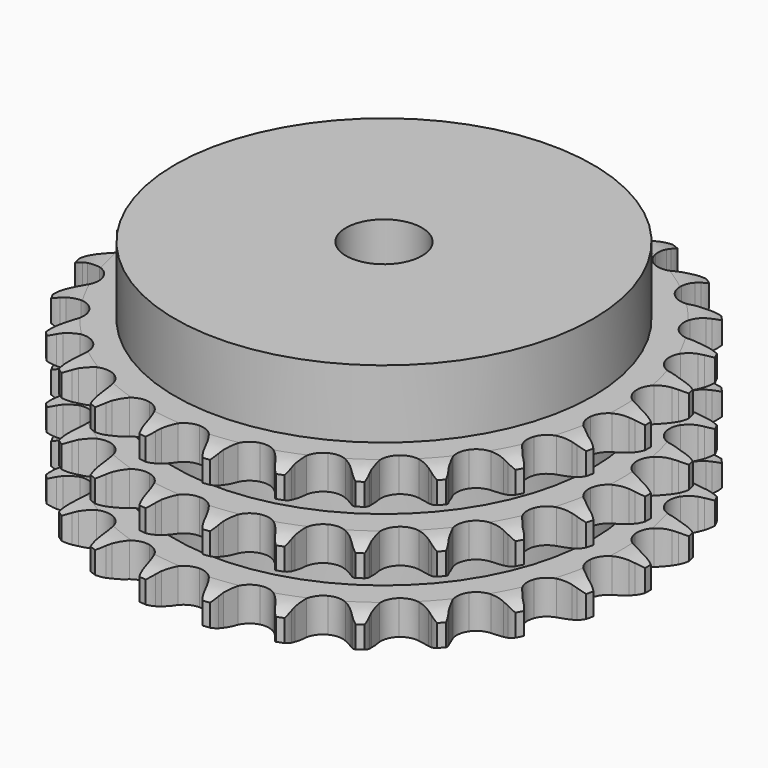
from build123d import *

# Parameters (mm, degrees)
PAD_DEPTH         = 42.1
SKETCH001_R       = 55
PAD001_DEPTH      = 60
SKETCH002_R       = 10
POCKET_DEPTH      = 0.001
POCKET_DEPTH_BACK = 60.001


with BuildPart() as part:
    # Sprocket → Pad (new body)
    with BuildSketch(Plane.XY):
        with BuildLine():
            ThreePointArc((-8.535843, 70.298991), (-7.278141, 68.863703), (-6.380745, 67.179499))
            Line((-6.380745, 67.179499), (-5.886352, 65.921935))
            ThreePointArc((-5.886352, 65.921935), (-5.099116, 64.265742), (-4.091099, 62.733874))
            ThreePointArc((-4.091099, 62.733874), (-2.28265, 61.242083), (0, 60.707824))
            ThreePointArc((0, 60.707824), (2.28265, 61.242083), (4.091099, 62.733874))
            ThreePointArc((4.091099, 62.733874), (5.099116, 64.265742), (5.886352, 65.921935))
            Line((5.886352, 65.921935), (6.380745, 67.179499))
            ThreePointArc((6.380745, 67.179499), (7.278141, 68.863703), (8.535843, 70.298991))
            ThreePointArc((8.535843, 70.298991), (9.413511, 68.604422), (9.881775, 66.754397))
            Line((9.881775, 66.754397), (10.060846, 65.41506))
            ThreePointArc((10.060846, 65.41506), (10.428854, 63.618594), (11.040979, 61.890005))
            ThreePointArc((11.040979, 61.890005), (12.439869, 60.008774), (14.528333, 58.943765))
            ThreePointArc((14.528333, 58.943765), (16.872511, 58.916226), (18.985418, 59.931877))
            Line((18.985418, 59.931877), (21.491457, 62.597667))
            ThreePointArc((21.491457, 62.597667), (21.867904, 63.158966), (22.272438, 63.700373))
            ThreePointArc((22.272438, 63.700373), (23.546814, 65.120876), (25.111457, 66.213469))
            ThreePointArc((25.111457, 66.213469), (25.558085, 64.358102), (25.570001, 62.449772))
            Line((25.570001, 62.449772), (25.423345, 61.106499))
            ThreePointArc((25.423345, 61.106499), (25.350736, 59.274165), (25.531396, 57.449315))
            ThreePointArc((25.531396, 57.449315), (26.439429, 55.287972), (28.212333, 53.754109))
            ThreePointArc((28.212333, 53.754109), (30.481802, 53.166371), (32.776373, 53.646858))
            Line((32.776373, 53.646858), (35.847557, 55.63545))
            ThreePointArc((35.847557, 55.63545), (36.347393, 56.090349), (36.869739, 56.519212))
            ThreePointArc((36.869739, 56.519212), (38.447033, 57.59346), (40.227684, 58.279861))
            ThreePointArc((40.227684, 58.279861), (40.217315, 56.371522), (39.772192, 54.515793))
            Line((39.772192, 54.515793), (39.308331, 53.24665))
            ThreePointArc((39.308331, 53.24665), (38.799326, 51.484938), (38.538021, 49.669879))
            ThreePointArc((38.538021, 49.669879), (38.902425, 47.354035), (40.256734, 45.440459))
            ThreePointArc((40.256734, 45.440459), (42.319601, 44.326681), (44.662485, 44.244078))
            Line((44.662485, 44.244078), (48.120326, 45.439903))
            ThreePointArc((48.120326, 45.439903), (48.714503, 45.761965), (49.324304, 46.053361))
            ThreePointArc((49.324304, 46.053361), (51.112849, 46.718922), (53.006024, 46.95924))
            ThreePointArc((53.006024, 46.95924), (52.539261, 45.108835), (51.662968, 43.413555))
            Line((51.662968, 43.413555), (50.90886, 42.2923))
            ThreePointArc((50.90886, 42.2923), (49.99304, 40.703592), (49.304956, 39.003811))
            ThreePointArc((49.304956, 39.003811), (49.104553, 36.668053), (49.96156, 34.485975))
            ThreePointArc((49.96156, 34.485975), (51.69794, 32.910884), (53.952975, 32.269993))
            Line((53.952975, 32.269993), (57.596518, 32.603555))
            ThreePointArc((57.596518, 32.603555), (58.250503, 32.774062), (58.91232, 32.911055))
            ThreePointArc((58.91232, 32.911055), (60.808172, 33.129249), (62.703847, 32.909518))
            ThreePointArc((62.703847, 32.909518), (61.807817, 31.224586), (60.551279, 29.788278))
            Line((60.551279, 29.788278), (59.550751, 28.880075))
            ThreePointArc((59.550751, 28.880075), (58.281341, 27.556702), (57.206467, 26.070982))
            ThreePointArc((57.206467, 26.070982), (56.452904, 23.851057), (56.762802, 21.527291))
            ThreePointArc((56.762802, 21.527291), (58.071782, 19.582427), (60.107915, 18.420494))
            Line((60.107915, 18.420494), (63.725409, 17.872406))
            ThreePointArc((63.725409, 17.872406), (64.401195, 17.88145), (65.076566, 17.856079))
            ThreePointArc((65.076566, 17.856079), (66.969545, 17.614226), (68.75755, 16.947214))
            ThreePointArc((68.75755, 16.947214), (67.484326, 15.525677), (65.920571, 14.431816))
            Line((65.920571, 14.431816), (64.731768, 13.789445))
            ThreePointArc((64.731768, 13.789445), (63.182541, 12.808317), (61.783345, 11.623003))
            ThreePointArc((61.783345, 11.623003), (60.520417, 9.647925), (60.265196, 7.31752))
            ThreePointArc((60.265196, 7.31752), (61.070703, 5.11591), (62.7696, 3.500462))
            Line((62.7696, 3.500462), (66.150811, 2.102577))
            ThreePointArc((66.150811, 2.102577), (66.809125, 1.949632), (67.458798, 1.763372))
            ThreePointArc((67.458798, 1.763372), (69.238892, 1.075527), (70.815314, 0))
            ThreePointArc((70.815314, 0), (69.238892, -1.075527), (67.458798, -1.763372))
            Line((67.458798, -1.763372), (66.150811, -2.102577))
            ThreePointArc((66.150811, -2.102577), (64.411802, -2.684442), (62.7696, -3.500462))
            ThreePointArc((62.7696, -3.500462), (61.070703, -5.11591), (60.265196, -7.31752))
            ThreePointArc((60.265196, -7.31752), (60.520417, -9.647925), (61.783345, -11.623003))
            Line((61.783345, -11.623003), (64.731768, -13.789445))
            ThreePointArc((64.731768, -13.789445), (65.33435, -14.095491), (65.920571, -14.431816))
            ThreePointArc((65.920571, -14.431816), (67.484326, -15.525677), (68.75755, -16.947214))
            ThreePointArc((68.75755, -16.947214), (66.969545, -17.614226), (65.076566, -17.856079))
            Line((65.076566, -17.856079), (63.725409, -17.872406))
            ThreePointArc((63.725409, -17.872406), (61.897684, -18.02119), (60.107915, -18.420494))
            ThreePointArc((60.107915, -18.420494), (58.071782, -19.582427), (56.762802, -21.527291))
            ThreePointArc((56.762802, -21.527291), (56.452904, -23.851057), (57.206467, -26.070982))
            Line((57.206467, -26.070982), (59.550751, -28.880075))
            ThreePointArc((59.550751, -28.880075), (60.062581, -29.321435), (60.551279, -29.788278))
            ThreePointArc((60.551279, -29.788278), (61.807817, -31.224586), (62.703847, -32.909518))
            ThreePointArc((62.703847, -32.909518), (60.808172, -33.129249), (58.91232, -32.911055))
            Line((58.91232, -32.911055), (57.596518, -32.603555))
            ThreePointArc((57.596518, -32.603555), (55.786296, -32.310612), (53.952975, -32.269993))
            ThreePointArc((53.952975, -32.269993), (51.69794, -32.910884), (49.96156, -34.485975))
            ThreePointArc((49.96156, -34.485975), (49.104553, -36.668053), (49.304956, -39.003811))
            Line((49.304956, -39.003811), (50.90886, -42.2923))
            ThreePointArc((50.90886, -42.2923), (51.300193, -42.843324), (51.662968, -43.413555))
            ThreePointArc((51.662968, -43.413555), (52.539261, -45.108835), (53.006024, -46.95924))
            ThreePointArc((53.006024, -46.95924), (51.112849, -46.718922), (49.324304, -46.053361))
            Line((49.324304, -46.053361), (48.120326, -45.439903))
            ThreePointArc((48.120326, -45.439903), (46.432812, -44.722259), (44.662485, -44.244078))
            ThreePointArc((44.662485, -44.244078), (42.319601, -44.326681), (40.256734, -45.440459))
            ThreePointArc((40.256734, -45.440459), (38.902425, -47.354035), (38.538021, -49.669879))
            Line((38.538021, -49.669879), (39.308331, -53.24665))
            ThreePointArc((39.308331, -53.24665), (39.556424, -53.875314), (39.772192, -54.515793))
            ThreePointArc((39.772192, -54.515793), (40.217315, -56.371522), (40.227684, -58.279861))
            ThreePointArc((40.227684, -58.279861), (38.447033, -57.59346), (36.869739, -56.519212))
            Line((36.869739, -56.519212), (35.847557, -55.63545))
            ThreePointArc((35.847557, -55.63545), (34.380822, -54.534811), (32.776373, -53.646858))
            ThreePointArc((32.776373, -53.646858), (30.481802, -53.166371), (28.212333, -53.754109))
            ThreePointArc((28.212333, -53.754109), (26.439429, -55.287972), (25.531396, -57.449315))
            Line((25.531396, -57.449315), (25.423345, -61.106499))
            ThreePointArc((25.423345, -61.106499), (25.51378, -61.776268), (25.570001, -62.449772))
            ThreePointArc((25.570001, -62.449772), (25.558085, -64.358102), (25.111457, -66.213469))
            ThreePointArc((25.111457, -66.213469), (23.546814, -65.120876), (22.272438, -63.700373))
            Line((22.272438, -63.700373), (21.491457, -62.597667))
            ThreePointArc((21.491457, -62.597667), (20.330744, -61.177998), (18.985418, -59.931877))
            ThreePointArc((18.985418, -59.931877), (16.872511, -58.916226), (14.528333, -58.943765))
            ThreePointArc((14.528333, -58.943765), (12.439869, -60.008774), (11.040979, -61.890005))
            Line((11.040979, -61.890005), (10.060846, -65.41506))
            ThreePointArc((10.060846, -65.41506), (9.988367, -66.087009), (9.881775, -66.754397))
            ThreePointArc((9.881775, -66.754397), (9.413511, -68.604422), (8.535843, -70.298991))
            ThreePointArc((8.535843, -70.298991), (7.278141, -68.863703), (6.380745, -67.179499))
            Line((6.380745, -67.179499), (5.886352, -65.921935))
            ThreePointArc((5.886352, -65.921935), (5.099116, -64.265742), (4.091099, -62.733874))
            ThreePointArc((4.091099, -62.733874), (2.28265, -61.242083), (0, -60.707824))
            ThreePointArc((0, -60.707824), (-2.28265, -61.242083), (-4.091099, -62.733874))
            Line((-4.091099, -62.733874), (-5.886352, -65.921935))
            ThreePointArc((-5.886352, -65.921935), (-6.117533, -66.557013), (-6.380745, -67.179499))
            ThreePointArc((-6.380745, -67.179499), (-7.278141, -68.863703), (-8.535843, -70.298991))
            ThreePointArc((-8.535843, -70.298991), (-9.413511, -68.604422), (-9.881775, -66.754397))
            Line((-9.881775, -66.754397), (-10.060846, -65.41506))
            ThreePointArc((-10.060846, -65.41506), (-10.428854, -63.618594), (-11.040979, -61.890005))
            ThreePointArc((-11.040979, -61.890005), (-12.439869, -60.008774), (-14.528333, -58.943765))
            ThreePointArc((-14.528333, -58.943765), (-16.872511, -58.916226), (-18.985418, -59.931877))
            Line((-18.985418, -59.931877), (-21.491457, -62.597667))
            ThreePointArc((-21.491457, -62.597667), (-21.867904, -63.158966), (-22.272438, -63.700373))
            ThreePointArc((-22.272438, -63.700373), (-23.546814, -65.120876), (-25.111457, -66.213469))
            ThreePointArc((-25.111457, -66.213469), (-25.558085, -64.358102), (-25.570001, -62.449772))
            Line((-25.570001, -62.449772), (-25.423345, -61.106499))
            ThreePointArc((-25.423345, -61.106499), (-25.350736, -59.274165), (-25.531396, -57.449315))
            ThreePointArc((-25.531396, -57.449315), (-26.439429, -55.287972), (-28.212333, -53.754109))
            ThreePointArc((-28.212333, -53.754109), (-30.481802, -53.166371), (-32.776373, -53.646858))
            Line((-32.776373, -53.646858), (-35.847557, -55.63545))
            ThreePointArc((-35.847557, -55.63545), (-36.347393, -56.090349), (-36.869739, -56.519212))
            ThreePointArc((-36.869739, -56.519212), (-38.447033, -57.59346), (-40.227684, -58.279861))
            ThreePointArc((-40.227684, -58.279861), (-40.217315, -56.371522), (-39.772192, -54.515793))
            Line((-39.772192, -54.515793), (-39.308331, -53.24665))
            ThreePointArc((-39.308331, -53.24665), (-38.799326, -51.484938), (-38.538021, -49.669879))
            ThreePointArc((-38.538021, -49.669879), (-38.902425, -47.354035), (-40.256734, -45.440459))
            ThreePointArc((-40.256734, -45.440459), (-42.319601, -44.326681), (-44.662485, -44.244078))
            Line((-44.662485, -44.244078), (-48.120326, -45.439903))
            ThreePointArc((-48.120326, -45.439903), (-48.714503, -45.761965), (-49.324304, -46.053361))
            ThreePointArc((-49.324304, -46.053361), (-51.112849, -46.718922), (-53.006024, -46.95924))
            ThreePointArc((-53.006024, -46.95924), (-52.539261, -45.108835), (-51.662968, -43.413555))
            Line((-51.662968, -43.413555), (-50.90886, -42.2923))
            ThreePointArc((-50.90886, -42.2923), (-49.99304, -40.703592), (-49.304956, -39.003811))
            ThreePointArc((-49.304956, -39.003811), (-49.104553, -36.668053), (-49.96156, -34.485975))
            ThreePointArc((-49.96156, -34.485975), (-51.69794, -32.910884), (-53.952975, -32.269993))
            Line((-53.952975, -32.269993), (-57.596518, -32.603555))
            ThreePointArc((-57.596518, -32.603555), (-58.250503, -32.774062), (-58.91232, -32.911055))
            ThreePointArc((-58.91232, -32.911055), (-60.808172, -33.129249), (-62.703847, -32.909518))
            ThreePointArc((-62.703847, -32.909518), (-61.807817, -31.224586), (-60.551279, -29.788278))
            Line((-60.551279, -29.788278), (-59.550751, -28.880075))
            ThreePointArc((-59.550751, -28.880075), (-58.281341, -27.556702), (-57.206467, -26.070982))
            ThreePointArc((-57.206467, -26.070982), (-56.452904, -23.851057), (-56.762802, -21.527291))
            ThreePointArc((-56.762802, -21.527291), (-58.071782, -19.582427), (-60.107915, -18.420494))
            Line((-60.107915, -18.420494), (-63.725409, -17.872406))
            ThreePointArc((-63.725409, -17.872406), (-64.401195, -17.88145), (-65.076566, -17.856079))
            ThreePointArc((-65.076566, -17.856079), (-66.969545, -17.614226), (-68.75755, -16.947214))
            ThreePointArc((-68.75755, -16.947214), (-67.484326, -15.525677), (-65.920571, -14.431816))
            Line((-65.920571, -14.431816), (-64.731768, -13.789445))
            ThreePointArc((-64.731768, -13.789445), (-63.182541, -12.808317), (-61.783345, -11.623003))
            ThreePointArc((-61.783345, -11.623003), (-60.520417, -9.647925), (-60.265196, -7.31752))
            ThreePointArc((-60.265196, -7.31752), (-61.070703, -5.11591), (-62.7696, -3.500462))
            Line((-62.7696, -3.500462), (-66.150811, -2.102577))
            ThreePointArc((-66.150811, -2.102577), (-66.809125, -1.949632), (-67.458798, -1.763372))
            ThreePointArc((-67.458798, -1.763372), (-69.238892, -1.075527), (-70.815314, 0))
            ThreePointArc((-70.815314, 0), (-69.238892, 1.075527), (-67.458798, 1.763372))
            Line((-67.458798, 1.763372), (-66.150811, 2.102577))
            ThreePointArc((-66.150811, 2.102577), (-64.411802, 2.684442), (-62.7696, 3.500462))
            ThreePointArc((-62.7696, 3.500462), (-61.070703, 5.11591), (-60.265196, 7.31752))
            ThreePointArc((-60.265196, 7.31752), (-60.520417, 9.647925), (-61.783345, 11.623003))
            Line((-61.783345, 11.623003), (-64.731768, 13.789445))
            ThreePointArc((-64.731768, 13.789445), (-65.33435, 14.095491), (-65.920571, 14.431816))
            ThreePointArc((-65.920571, 14.431816), (-67.484326, 15.525677), (-68.75755, 16.947214))
            ThreePointArc((-68.75755, 16.947214), (-66.969545, 17.614226), (-65.076566, 17.856079))
            Line((-65.076566, 17.856079), (-63.725409, 17.872406))
            ThreePointArc((-63.725409, 17.872406), (-61.897684, 18.02119), (-60.107915, 18.420494))
            ThreePointArc((-60.107915, 18.420494), (-58.071782, 19.582427), (-56.762802, 21.527291))
            ThreePointArc((-56.762802, 21.527291), (-56.452904, 23.851057), (-57.206467, 26.070982))
            Line((-57.206467, 26.070982), (-59.550751, 28.880075))
            ThreePointArc((-59.550751, 28.880075), (-60.062581, 29.321435), (-60.551279, 29.788278))
            ThreePointArc((-60.551279, 29.788278), (-61.807817, 31.224586), (-62.703847, 32.909518))
            ThreePointArc((-62.703847, 32.909518), (-60.808172, 33.129249), (-58.91232, 32.911055))
            Line((-58.91232, 32.911055), (-57.596518, 32.603555))
            ThreePointArc((-57.596518, 32.603555), (-55.786296, 32.310612), (-53.952975, 32.269993))
            ThreePointArc((-53.952975, 32.269993), (-51.69794, 32.910884), (-49.96156, 34.485975))
            ThreePointArc((-49.96156, 34.485975), (-49.104553, 36.668053), (-49.304956, 39.003811))
            Line((-49.304956, 39.003811), (-50.90886, 42.2923))
            ThreePointArc((-50.90886, 42.2923), (-51.300193, 42.843324), (-51.662968, 43.413555))
            ThreePointArc((-51.662968, 43.413555), (-52.539261, 45.108835), (-53.006024, 46.95924))
            ThreePointArc((-53.006024, 46.95924), (-51.112849, 46.718922), (-49.324304, 46.053361))
            Line((-49.324304, 46.053361), (-48.120326, 45.439903))
            ThreePointArc((-48.120326, 45.439903), (-46.432812, 44.722259), (-44.662485, 44.244078))
            ThreePointArc((-44.662485, 44.244078), (-42.319601, 44.326681), (-40.256734, 45.440459))
            ThreePointArc((-40.256734, 45.440459), (-38.902425, 47.354035), (-38.538021, 49.669879))
            Line((-38.538021, 49.669879), (-39.308331, 53.24665))
            ThreePointArc((-39.308331, 53.24665), (-39.556424, 53.875314), (-39.772192, 54.515793))
            ThreePointArc((-39.772192, 54.515793), (-40.217315, 56.371522), (-40.227684, 58.279861))
            ThreePointArc((-40.227684, 58.279861), (-38.447033, 57.59346), (-36.869739, 56.519212))
            Line((-36.869739, 56.519212), (-35.847557, 55.63545))
            ThreePointArc((-35.847557, 55.63545), (-34.380822, 54.534811), (-32.776373, 53.646858))
            ThreePointArc((-32.776373, 53.646858), (-30.481802, 53.166371), (-28.212333, 53.754109))
            ThreePointArc((-28.212333, 53.754109), (-26.439429, 55.287972), (-25.531396, 57.449315))
            Line((-25.531396, 57.449315), (-25.423345, 61.106499))
            ThreePointArc((-25.423345, 61.106499), (-25.51378, 61.776268), (-25.570001, 62.449772))
            ThreePointArc((-25.570001, 62.449772), (-25.558085, 64.358102), (-25.111457, 66.213469))
            ThreePointArc((-25.111457, 66.213469), (-23.546814, 65.120876), (-22.272438, 63.700373))
            Line((-22.272438, 63.700373), (-21.491457, 62.597667))
            ThreePointArc((-21.491457, 62.597667), (-20.330744, 61.177998), (-18.985418, 59.931877))
            ThreePointArc((-18.985418, 59.931877), (-16.872511, 58.916226), (-14.528333, 58.943765))
            ThreePointArc((-14.528333, 58.943765), (-12.439869, 60.008774), (-11.040979, 61.890005))
            Line((-11.040979, 61.890005), (-10.060846, 65.41506))
            ThreePointArc((-10.060846, 65.41506), (-9.988367, 66.087009), (-9.881775, 66.754397))
            ThreePointArc((-9.881775, 66.754397), (-9.413511, 68.604422), (-8.535843, 70.298991))
        make_face()
    extrude(amount=PAD_DEPTH)

    # Sketch → Groove (revolve, cut)
    with BuildSketch(Plane.XZ):
        with BuildLine():
            ThreePointArc((62.525762, 0), (66.10347, 0.405129), (69.5, 1.6))
            Line((69.5, 1.6), (69.5, 7.4))
            ThreePointArc((69.5, 7.4), (66.10347, 8.594871), (62.525762, 9))
            Line((55, 9), (62.525762, 9))
            Line((55, 9), (55, 16.55))
            Line((55, 16.55), (62.525762, 16.55))
            ThreePointArc((62.525762, 16.55), (66.10347, 16.955129), (69.5, 18.15))
            Line((69.5, 23.95), (69.5, 18.15))
            ThreePointArc((69.5, 23.95), (66.10347, 25.144871), (62.525762, 25.55))
            Line((55, 25.55), (62.525762, 25.55))
            Line((55, 33.1), (55, 25.55))
            Line((62.525762, 33.1), (55, 33.1))
            ThreePointArc((62.525762, 33.1), (66.10347, 33.505129), (69.5, 34.7))
            Line((69.5, 34.7), (69.5, 40.5))
            ThreePointArc((69.5, 40.5), (66.10347, 41.694871), (62.525762, 42.1))
            Line((62.525762, 42.1), (79.5, 42.1))
            Line((79.5, 42.1), (79.5, 0))
            Line((62.525762, 0), (79.5, 0))
        make_face()
    revolve(axis=Axis((0, 0, 0), (0, 0, 1)), mode=Mode.SUBTRACT)

    # Sketch001 → Pad001 (join)
    with BuildSketch(Plane.XY):
        Circle(SKETCH001_R)
    extrude(amount=PAD001_DEPTH)

    # Sketch002 → Pocket (cut, two sides)
    with BuildSketch(Plane.XY) as pocket_sk:
        Circle(SKETCH002_R)
    extrude(amount=-POCKET_DEPTH, mode=Mode.SUBTRACT)
    extrude(pocket_sk.sketch, amount=POCKET_DEPTH_BACK, mode=Mode.SUBTRACT)


solid = part.part
